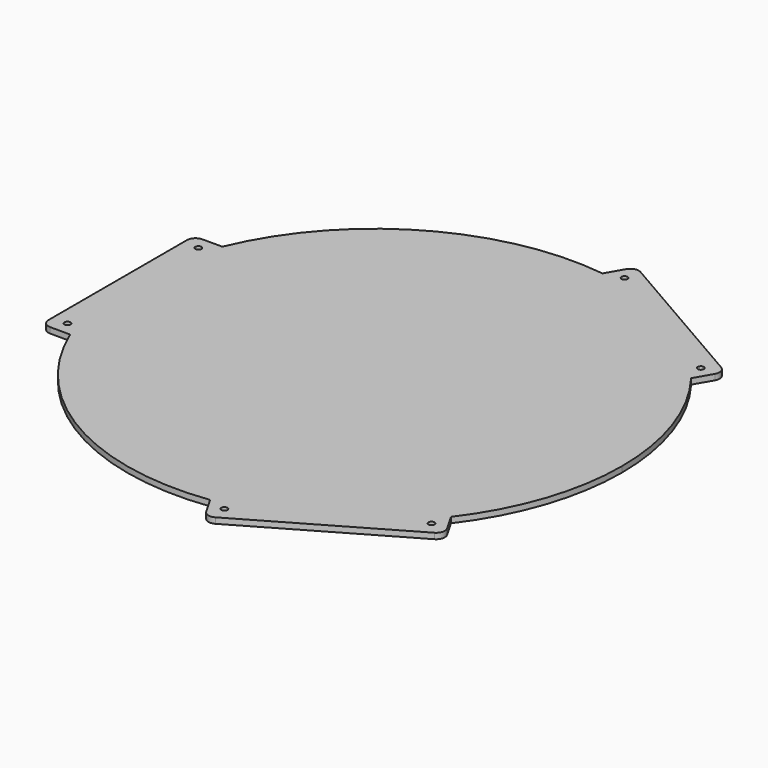
from build123d import *

# Parameters (mm, degrees)
F0_R     = 1.6
F1_DEPTH = 3


with BuildPart() as f1:
    # F0 (on Top) → F1 (new body)
    with BuildSketch(Plane.XY):
        with BuildLine():
            ThreePointArc((103.3012701892, -78.9230484541), (123.1445596131, -41.6583417541), (130, 0))
            ThreePointArc((130, 0), (123.1445596131, 41.6583417541), (103.3012701892, 78.9230484541))
            Line((103.3012701892, 78.9230484541), (16.6987298108, 128.9230484541))
            ThreePointArc((16.6987298108, 128.9230484541), (-65, 112.583302492), (-120, 50))
            Line((-120, 50), (-120, -50))
            ThreePointArc((-120, -50), (-65, -112.583302492), (16.6987298108, -128.9230484541))
            Line((16.6987298108, -128.9230484541), (103.3012701892, -78.9230484541))
        make_face()
        with BuildLine():
            Line((16.6987298108, 128.9230484541), (103.3012701892, 78.9230484541))
            ThreePointArc((103.3012701892, 78.9230484541), (65, 112.583302492), (16.6987298108, 128.9230484541))
        make_face()
        with BuildLine():
            ThreePointArc((16.6987298108, 128.9230484541), (65, 112.583302492), (103.3012701892, 78.9230484541))
            Line((103.3012701892, 78.9230484541), (108.5512701892, 88.0163151939))
            ThreePointArc((108.5512701892, 88.0163151939), (109.0008220905, 91.4310008968), (106.9041558722, 94.1634295109))
            Line((106.9041558722, 94.1634295109), (28.0958441278, 139.6634295109))
            ThreePointArc((28.0958441278, 139.6634295109), (24.6811584248, 140.1129814122), (21.9487298108, 138.0163151939))
            Line((21.9487298108, 138.0163151939), (16.6987298108, 128.9230484541))
        make_face()
        with Locations((26.2609076373, 131.4852262806)):
            Circle(F0_R, mode=Mode.SUBTRACT)
        with Locations((100.7390923627, 88.4852262806)):
            Circle(F0_R, mode=Mode.SUBTRACT)
        with BuildLine():
            Line((108.5512701892, -88.0163151939), (103.3012701892, -78.9230484541))
            ThreePointArc((103.3012701892, -78.9230484541), (65, -112.583302492), (16.6987298108, -128.9230484541))
            Line((16.6987298108, -128.9230484541), (21.9487298108, -138.0163151939))
            ThreePointArc((21.9487298108, -138.0163151939), (24.6811584248, -140.1129814122), (28.0958441278, -139.6634295109))
            Line((28.0958441278, -139.6634295109), (106.9041558722, -94.1634295109))
            ThreePointArc((106.9041558722, -94.1634295109), (109.0008220905, -91.4310008968), (108.5512701892, -88.0163151939))
        make_face()
        with Locations((26.2609076373, -131.4852262806)):
            Circle(F0_R, mode=Mode.SUBTRACT)
        with Locations((100.7390923627, -88.4852262806)):
            Circle(F0_R, mode=Mode.SUBTRACT)
        with BuildLine():
            ThreePointArc((16.6987298108, -128.9230484541), (65, -112.583302492), (103.3012701892, -78.9230484541))
            Line((103.3012701892, -78.9230484541), (16.6987298108, -128.9230484541))
        make_face()
        with BuildLine():
            Line((-120, -50), (-120, 50))
            ThreePointArc((-120, 50), (-130, 0), (-120, -50))
        make_face()
        with BuildLine():
            ThreePointArc((-120, -50), (-130, 0), (-120, 50))
            Line((-120, 50), (-130.5, 50))
            ThreePointArc((-130.5, 50), (-133.6819805153, 48.6819805153), (-135, 45.5))
            Line((-135, 45.5), (-135, -45.5))
            ThreePointArc((-135, -45.5), (-133.6819805153, -48.6819805153), (-130.5, -50))
            Line((-130.5, -50), (-120, -50))
        make_face()
        with Locations((-127, -43)):
            Circle(F0_R, mode=Mode.SUBTRACT)
        with Locations((-127, 43)):
            Circle(F0_R, mode=Mode.SUBTRACT)
    extrude(amount=F1_DEPTH)


solid = f1.part
